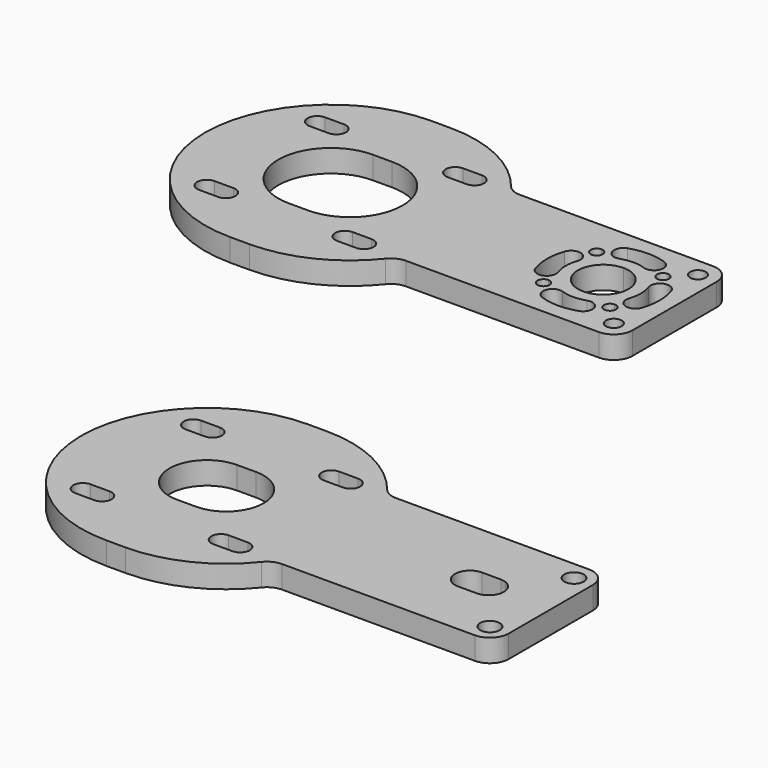
from build123d import *

# Parameters (mm, degrees)
F0_R     = 2.1
F1_DEPTH = 6
F3_DEPTH = 25
F4_R     = 2.6
F5_DEPTH = 6


with BuildPart() as f1:
    # F0 (on Top) → F1 (new body)
    with BuildSketch(Plane.XY):
        with BuildLine():
            Line((83.9534397721, 19), (74.9534397721, 19))
            Line((74.9534397721, 19), (50.9534397721, 19))
            Line((50.9534397721, 19), (50.9534397721, -19))
            Line((50.9534397721, -19), (74.9534397721, -19))
            Line((74.9534397721, -19), (83.9534397721, -19))
            ThreePointArc((83.9534397721, -19), (87.4889736781, -17.5355339059), (88.9534397721, -14))
            Line((88.9534397721, -14), (88.9534397721, 14))
            ThreePointArc((88.9534397721, 14), (87.4889736781, 17.5355339059), (83.9534397721, 19))
        make_face()
        with BuildLine():
            ThreePointArc((61.1146050073, -7.2388347648), (62.2459758572, -7.7074639149), (62.7146050073, -8.8388347648))
            ThreePointArc((62.7146050073, -8.8388347648), (62.2459758572, -9.9702056147), (61.1146050073, -10.4388347648))
            ThreePointArc((61.1146050073, -10.4388347648), (59.5146050073, -8.8388347648), (61.1146050073, -7.2388347648))
        make_face(mode=Mode.SUBTRACT)
        with Locations((83.9534397721, -14)):
            Circle(F0_R, mode=Mode.SUBTRACT)
        with BuildLine():
            ThreePointArc((78.792274537, -7.2388347648), (79.9236453869, -7.7074639149), (80.392274537, -8.8388347648))
            ThreePointArc((80.392274537, -8.8388347648), (79.9236453869, -9.9702056147), (78.792274537, -10.4388347648))
            ThreePointArc((78.792274537, -10.4388347648), (77.192274537, -8.8388347648), (78.792274537, -7.2388347648))
        make_face(mode=Mode.SUBTRACT)
        with BuildLine():
            ThreePointArc((69.9534397721, 6.75), (74.7264105451, 4.772970773), (76.7034397721, 0))
            ThreePointArc((76.7034397721, 0), (74.7264105451, -4.772970773), (69.9534397721, -6.75))
            ThreePointArc((69.9534397721, -6.75), (63.2034397721, 0), (69.9534397721, 6.75))
        make_face(mode=Mode.SUBTRACT)
        with BuildLine():
            ThreePointArc((61.1146050073, 10.4388347648), (62.2459758572, 9.9702056147), (62.7146050073, 8.8388347648))
            ThreePointArc((62.7146050073, 8.8388347648), (62.2459758572, 7.7074639149), (61.1146050073, 7.2388347648))
            ThreePointArc((61.1146050073, 7.2388347648), (59.5146050073, 8.8388347648), (61.1146050073, 10.4388347648))
        make_face(mode=Mode.SUBTRACT)
        with BuildLine():
            ThreePointArc((78.792274537, 10.4388347648), (79.9236453869, 9.9702056147), (80.392274537, 8.8388347648))
            ThreePointArc((80.392274537, 8.8388347648), (79.9236453869, 7.7074639149), (78.792274537, 7.2388347648))
            ThreePointArc((78.792274537, 7.2388347648), (77.192274537, 8.8388347648), (78.792274537, 10.4388347648))
        make_face(mode=Mode.SUBTRACT)
        with Locations((83.9534397721, 14)):
            Circle(F0_R, mode=Mode.SUBTRACT)
        with BuildLine():
            Line((50.9534397721, -19), (50.9534397721, 19))
            Line((50.9534397721, 19), (32.6073608825, 19))
            ThreePointArc((32.6073608825, 19), (30.4376161492, 19.4953126865), (28.6977522531, 20.8831168831))
            ThreePointArc((28.6977522531, 20.8831168831), (17.0406641488, 30.1814050003), (2.5033744356, 33.5))
            Line((2.5033744356, 33.5), (-2.5966255644, 33.5))
            ThreePointArc((-2.5966255644, 33.5), (-36.0966255644, 0), (-2.5966255644, -33.5))
            Line((-2.5966255644, -33.5), (2.5033744356, -33.5))
            ThreePointArc((2.5033744356, -33.5), (17.0406641488, -30.1814050003), (28.6977522531, -20.8831168831))
            ThreePointArc((28.6977522531, -20.8831168831), (30.4376161492, -19.4953126865), (32.6073608825, -19))
            Line((32.6073608825, -19), (50.9534397721, -19))
        make_face()
        with BuildLine():
            Line((-15.8347763109, -20.9347763109), (-20.9347763109, -20.9347763109))
            ThreePointArc((-20.9347763109, -20.9347763109), (-23.4847763109, -18.3847763109), (-20.9347763109, -15.8347763109))
            Line((-20.9347763109, -15.8347763109), (-15.8347763109, -15.8347763109))
            ThreePointArc((-15.8347763109, -15.8347763109), (-13.2847763109, -18.3847763109), (-15.8347763109, -20.9347763109))
        make_face(mode=Mode.SUBTRACT)
        with BuildLine():
            Line((20.9347763109, -20.9347763109), (15.8347763109, -20.9347763109))
            ThreePointArc((15.8347763109, -20.9347763109), (13.2847763109, -18.3847763109), (15.8347763109, -15.8347763109))
            Line((15.8347763109, -15.8347763109), (20.9347763109, -15.8347763109))
            ThreePointArc((20.9347763109, -15.8347763109), (23.4847763109, -18.3847763109), (20.9347763109, -20.9347763109))
        make_face(mode=Mode.SUBTRACT)
        with BuildLine():
            Line((-2.5966255644, 14), (2.5033744356, 14))
            ThreePointArc((2.5033744356, 14), (16.5033744356, 0), (2.5033744356, -14))
            Line((2.5033744356, -14), (-2.5966255644, -14))
            ThreePointArc((-2.5966255644, -14), (-16.5966255644, 0), (-2.5966255644, 14))
        make_face(mode=Mode.SUBTRACT)
        with BuildLine():
            Line((-15.8347763109, 15.8347763109), (-20.9347763109, 15.8347763109))
            ThreePointArc((-20.9347763109, 15.8347763109), (-23.4847763109, 18.3847763109), (-20.9347763109, 20.9347763109))
            Line((-20.9347763109, 20.9347763109), (-15.8347763109, 20.9347763109))
            ThreePointArc((-15.8347763109, 20.9347763109), (-13.2847763109, 18.3847763109), (-15.8347763109, 15.8347763109))
        make_face(mode=Mode.SUBTRACT)
        with BuildLine():
            Line((20.9347763109, 15.8347763109), (15.8347763109, 15.8347763109))
            ThreePointArc((15.8347763109, 15.8347763109), (13.2847763109, 18.3847763109), (15.8347763109, 20.9347763109))
            Line((15.8347763109, 20.9347763109), (20.9347763109, 20.9347763109))
            ThreePointArc((20.9347763109, 20.9347763109), (23.4847763109, 18.3847763109), (20.9347763109, 15.8347763109))
        make_face(mode=Mode.SUBTRACT)
    extrude(amount=F1_DEPTH)

    # F2 (on face) → F3 (cut)
    with BuildSketch(Plane.XY.offset(6)):
        with BuildLine():
            ThreePointArc((60.4982540161, 3.2556815446), (58.9483779633, 6.4333983697), (55.7706611381, 4.8835223169))
            ThreePointArc((55.7706611381, 4.8835223169), (54.9534397721, 0), (55.7706611381, -4.8835223169))
            ThreePointArc((55.7706611381, -4.8835223169), (58.9483779633, -6.4333983697), (60.4982540161, -3.2556815446))
            ThreePointArc((60.4982540161, -3.2556815446), (59.9534397721, 0), (60.4982540161, 3.2556815446))
        make_face()
        with BuildLine():
            ThreePointArc((66.6977582276, -9.455185756), (63.5200414024, -11.0050618088), (65.0699174553, -14.182778634))
            ThreePointArc((65.0699174553, -14.182778634), (69.9534397721, -15), (74.836962089, -14.182778634))
            ThreePointArc((74.836962089, -14.182778634), (76.3868381418, -11.0050618088), (73.2091213167, -9.455185756))
            ThreePointArc((73.2091213167, -9.455185756), (69.9534397721, -10), (66.6977582276, -9.455185756))
        make_face()
        with BuildLine():
            ThreePointArc((79.4086255281, -3.2556815446), (80.958501581, -6.4333983697), (84.1362184061, -4.8835223169))
            ThreePointArc((84.1362184061, -4.8835223169), (84.9534397721, 0), (84.1362184061, 4.8835223169))
            ThreePointArc((84.1362184061, 4.8835223169), (80.958501581, 6.4333983697), (79.4086255281, 3.2556815446))
            ThreePointArc((79.4086255281, 3.2556815446), (79.9534397721, 0), (79.4086255281, -3.2556815446))
        make_face()
        with BuildLine():
            ThreePointArc((73.2091213167, 9.455185756), (76.3868381418, 11.0050618088), (74.836962089, 14.182778634))
            ThreePointArc((74.836962089, 14.182778634), (69.9534397721, 15), (65.0699174553, 14.182778634))
            ThreePointArc((65.0699174553, 14.182778634), (63.5200414024, 11.0050618088), (66.6977582276, 9.455185756))
            ThreePointArc((66.6977582276, 9.455185756), (69.9534397721, 10), (73.2091213167, 9.455185756))
        make_face()
    extrude(amount=-F3_DEPTH, mode=Mode.SUBTRACT)


with BuildPart() as f5:
    # F4 (on Top) → F5 (new body)
    with BuildSketch(Plane.XY):
        with BuildLine():
            Line((149.1519199059, -103.7379346011), (140.1519199059, -103.7379346011))
            Line((140.1519199059, -103.7379346011), (116.1519199059, -103.7379346011))
            Line((116.1519199059, -103.7379346011), (97.8058410163, -103.7379346011))
            ThreePointArc((97.8058410163, -103.7379346011), (95.636096283, -103.2426219146), (93.8962323868, -101.854817718))
            ThreePointArc((93.8962323868, -101.854817718), (82.2391442826, -92.5565296008), (67.7018545693, -89.2379346011))
            Line((67.7018545693, -89.2379346011), (62.6018545693, -89.2379346011))
            ThreePointArc((62.6018545693, -89.2379346011), (29.1018545693, -122.7379346011), (62.6018545693, -156.2379346011))
            Line((62.6018545693, -156.2379346011), (67.7018545693, -156.2379346011))
            ThreePointArc((67.7018545693, -156.2379346011), (82.2391442826, -152.9193396014), (93.8962323868, -143.6210514842))
            ThreePointArc((93.8962323868, -143.6210514842), (95.636096283, -142.2332472876), (97.8058410163, -141.7379346011))
            Line((97.8058410163, -141.7379346011), (116.1519199059, -141.7379346011))
            Line((116.1519199059, -141.7379346011), (140.1519199059, -141.7379346011))
            Line((140.1519199059, -141.7379346011), (149.1519199059, -141.7379346011))
            ThreePointArc((149.1519199059, -141.7379346011), (152.6874538118, -140.273468507), (154.1519199059, -136.7379346011))
            Line((154.1519199059, -136.7379346011), (154.1519199059, -108.7379346011))
            ThreePointArc((154.1519199059, -108.7379346011), (152.6874538118, -105.2024006952), (149.1519199059, -103.7379346011))
        make_face()
        with BuildLine():
            Line((49.3637038229, -143.672710912), (44.2637038229, -143.672710912))
            ThreePointArc((44.2637038229, -143.672710912), (41.7137038229, -141.122710912), (44.2637038229, -138.572710912))
            Line((44.2637038229, -138.572710912), (49.3637038229, -138.572710912))
            ThreePointArc((49.3637038229, -138.572710912), (51.9137038229, -141.122710912), (49.3637038229, -143.672710912))
        make_face(mode=Mode.SUBTRACT)
        with BuildLine():
            Line((86.1332564446, -143.672710912), (81.0332564446, -143.672710912))
            ThreePointArc((81.0332564446, -143.672710912), (78.4832564446, -141.122710912), (81.0332564446, -138.572710912))
            Line((81.0332564446, -138.572710912), (86.1332564446, -138.572710912))
            ThreePointArc((86.1332564446, -138.572710912), (88.6832564446, -141.122710912), (86.1332564446, -143.672710912))
        make_face(mode=Mode.SUBTRACT)
        with Locations((149.1519199059, -136.7379346011)):
            Circle(F4_R, mode=Mode.SUBTRACT)
        with BuildLine():
            Line((137.6519199059, -126.7379346011), (132.6519199059, -126.7379346011))
            ThreePointArc((132.6519199059, -126.7379346011), (128.6519199059, -122.7379346011), (132.6519199059, -118.7379346011))
            Line((132.6519199059, -118.7379346011), (137.6519199059, -118.7379346011))
            ThreePointArc((137.6519199059, -118.7379346011), (141.6519199059, -122.7379346011), (137.6519199059, -126.7379346011))
        make_face(mode=Mode.SUBTRACT)
        with BuildLine():
            Line((62.6018545693, -112.7379346011), (67.7018545693, -112.7379346011))
            ThreePointArc((67.7018545693, -112.7379346011), (77.7018545693, -122.7379346011), (67.7018545693, -132.7379346011))
            Line((67.7018545693, -132.7379346011), (62.6018545693, -132.7379346011))
            ThreePointArc((62.6018545693, -132.7379346011), (52.6018545693, -122.7379346011), (62.6018545693, -112.7379346011))
        make_face(mode=Mode.SUBTRACT)
        with BuildLine():
            Line((49.3637038229, -106.9031582903), (44.2637038229, -106.9031582903))
            ThreePointArc((44.2637038229, -106.9031582903), (41.7137038229, -104.3531582903), (44.2637038229, -101.8031582903))
            Line((44.2637038229, -101.8031582903), (49.3637038229, -101.8031582903))
            ThreePointArc((49.3637038229, -101.8031582903), (51.9137038229, -104.3531582903), (49.3637038229, -106.9031582903))
        make_face(mode=Mode.SUBTRACT)
        with BuildLine():
            Line((86.1332564446, -106.9031582903), (81.0332564446, -106.9031582903))
            ThreePointArc((81.0332564446, -106.9031582903), (78.4832564446, -104.3531582903), (81.0332564446, -101.8031582903))
            Line((81.0332564446, -101.8031582903), (86.1332564446, -101.8031582903))
            ThreePointArc((86.1332564446, -101.8031582903), (88.6832564446, -104.3531582903), (86.1332564446, -106.9031582903))
        make_face(mode=Mode.SUBTRACT)
        with Locations((149.1519199059, -108.7379346011)):
            Circle(F4_R, mode=Mode.SUBTRACT)
    extrude(amount=F5_DEPTH)


solid = Compound([f1.part, f5.part])
